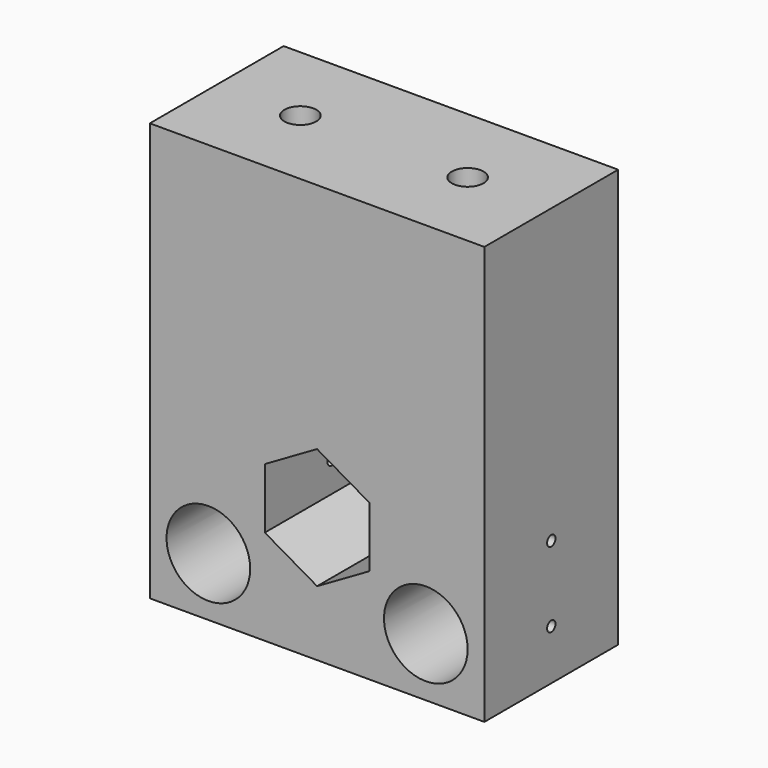
from build123d import *

# Parameters (mm, degrees)
F0_W     = 50.8
F0_H     = 63.5
F0_R     = 6.35
F1_DEPTH = 25.4
F2_R     = 0.79375
F3_DEPTH = 50.801
F4_R     = 2.413
F5_DEPTH = 25.4


with BuildPart() as f1:
    # F0 (on Front) → F1 (new body)
    with BuildSketch(Plane.XZ):
        with Locations((0, 12.7)):
            Rectangle(F0_W, F0_H)
        with Locations((-16.51, -10.16)):
            Circle(F0_R, mode=Mode.SUBTRACT)
        Polygon((0, -9.165436), (-7.9375, -4.582718), (-7.9375, 4.582718), (0, 9.165436), (7.9375, 4.582718), (7.9375, -4.582718), align=None, mode=Mode.SUBTRACT)
        with Locations((16.51, -10.16)):
            Circle(F0_R, mode=Mode.SUBTRACT)
    extrude(amount=-F1_DEPTH)

    # F2 (on face) → F3 (cut, through all)
    with BuildSketch(Plane.YZ.offset(25.4)):
        with Locations((12.7, -11.43)):
            Circle(F2_R)
        with Locations((12.7, 0)):
            Circle(F2_R)
    extrude(amount=-F3_DEPTH, mode=Mode.SUBTRACT)

    # F4 (on face) → F5 (cut)
    with BuildSketch(Plane.XY.offset(44.45)):
        with Locations((12.7, 12.7)):
            Circle(F4_R)
        with Locations((-12.7, 12.7)):
            Circle(F4_R)
    extrude(amount=-F5_DEPTH, mode=Mode.SUBTRACT)


solid = f1.part
